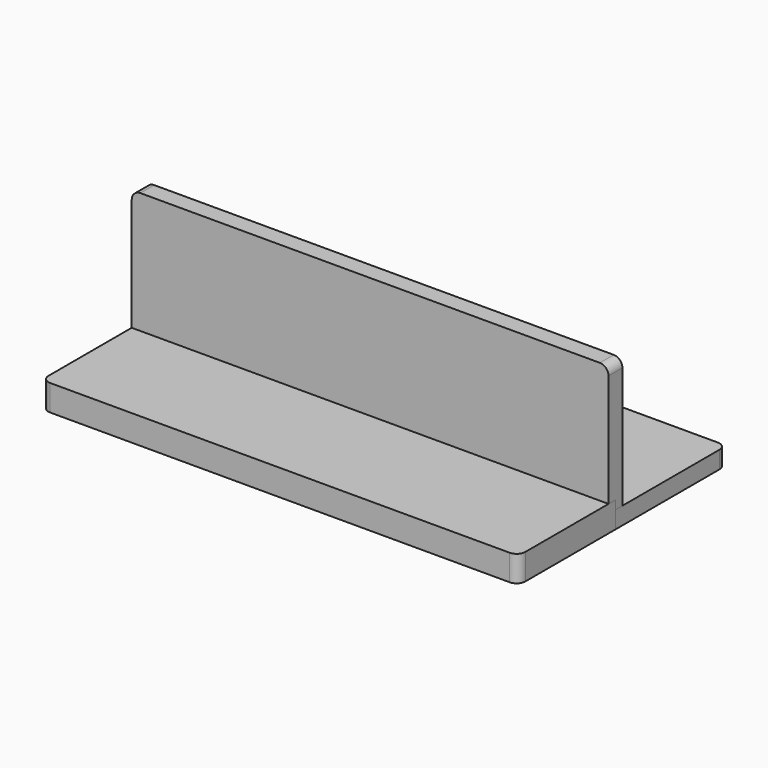
from build123d import *

# Parameters (mm, degrees)
PAD_DEPTH       = 2
SKETCH001_W     = 55
SKETCH001_H     = 2
PAD001_DEPTH    = 15
FILLET_R        = 1
SKETCH002_R     = 2.5
POCKET_DEPTH    = 2
CHAMFER_SIZE    = 1
PAD002_DEPTH    = 2
SKETCH004_R     = 2.5
POCKET001_DEPTH = 2
CHAMFER001_SIZE = 1
FILLET001_R     = 1
SKETCH005_W     = 55
SKETCH005_H     = 15
PAD003_DEPTH    = 3
FILLET002_R     = 1


with BuildPart() as battery_brackets_edge_body:
    # Sketch → Pad (new body)
    with BuildSketch(Plane.XY):
        with BuildLine():
            Line((-27.5, 7.5), (27.5, 7.5))
            Line((27.5, 7.5), (27.5, -3.5))
            ThreePointArc((23.5, -7.5), (26.328427, -6.328427), (27.5, -3.5))
            Line((23.5, -7.5), (-23.5, -7.5))
            ThreePointArc((-27.5, -3.5), (-26.328427, -6.328427), (-23.5, -7.5))
            Line((-27.5, -3.5), (-27.5, 7.5))
        make_face()
    extrude(amount=PAD_DEPTH)

    # Sketch001 (on Face8 of Pad) → Pad001 (join)
    with BuildSketch(Plane.XY.offset(2)):
        with Locations((0, 6.5)):
            Rectangle(SKETCH001_W, SKETCH001_H)
    extrude(amount=PAD001_DEPTH)

    # Fillet
    fillet_edges = [battery_brackets_edge_body.edges().sort_by_distance(p)[0] for p in [
        (-27.5, 6.5, 17),
        (27.5, 6.5, 17),
    ]]
    fillet(fillet_edges, radius=FILLET_R)

    # Sketch002 (on Face8 of Fillet) → Pocket (cut)
    with BuildSketch(Plane.XY.offset(2)):
        with Locations((-20, 0)):
            Circle(SKETCH002_R)
        with Locations((20, 0)):
            Circle(SKETCH002_R)
    extrude(amount=-POCKET_DEPTH, mode=Mode.SUBTRACT)

    # Chamfer
    chamfer_edges = [battery_brackets_edge_body.edges().sort_by_distance(p)[0] for p in [
        (17.5, 0, 2),
        (-22.5, 0, 2),
    ]]
    chamfer(chamfer_edges, length=CHAMFER_SIZE)


with BuildPart() as battery_brackets_flat_body:
    # Sketch003 → Pad002 (new body)
    with BuildSketch(Plane.XY):
        with BuildLine():
            Line((-27.5, 22.5), (27.5, 22.5))
            Line((27.5, 22.5), (27.5, -3.5))
            ThreePointArc((23.5, -7.5), (26.328427, -6.328427), (27.5, -3.5))
            Line((23.5, -7.5), (-23.5, -7.5))
            ThreePointArc((-27.5, -3.5), (-26.328427, -6.328427), (-23.5, -7.5))
            Line((-27.5, -3.5), (-27.5, 22.5))
        make_face()
    extrude(amount=PAD002_DEPTH)

    # Sketch004 (on Face8 of Pad002) → Pocket001 (cut)
    with BuildSketch(Plane.XY.offset(2)):
        with Locations((-20, 0)):
            Circle(SKETCH004_R)
        with Locations((20, 0)):
            Circle(SKETCH004_R)
    extrude(amount=-POCKET001_DEPTH, mode=Mode.SUBTRACT)

    # Chamfer001
    chamfer001_edges = [battery_brackets_flat_body.edges().sort_by_distance(p)[0] for p in [
        (-22.5, 0, 2),
        (17.5, 0, 2),
    ]]
    chamfer(chamfer001_edges, length=CHAMFER001_SIZE)

    # Fillet001
    fillet001_edges = [battery_brackets_flat_body.edges().sort_by_distance(p)[0] for p in [
        (27.5, 22.5, 1),
        (-27.5, 22.5, 1),
    ]]
    fillet(fillet001_edges, radius=FILLET001_R)


with BuildPart() as battery_brackets_flat_shim_body:
    # Sketch005 → Pad003 (new body)
    with BuildSketch(Plane.XY):
        Rectangle(SKETCH005_W, SKETCH005_H)
    extrude(amount=PAD003_DEPTH)

    # Fillet002
    fillet002_edges = [battery_brackets_flat_shim_body.edges().sort_by_distance(p)[0] for p in [
        (-27.5, -7.5, 1.5),
        (27.5, -7.5, 1.5),
        (-27.5, 7.5, 1.5),
        (27.5, 7.5, 1.5),
    ]]
    fillet(fillet002_edges, radius=FILLET002_R)


solid = Compound([battery_brackets_edge_body.part, battery_brackets_flat_body.part, battery_brackets_flat_shim_body.part])
